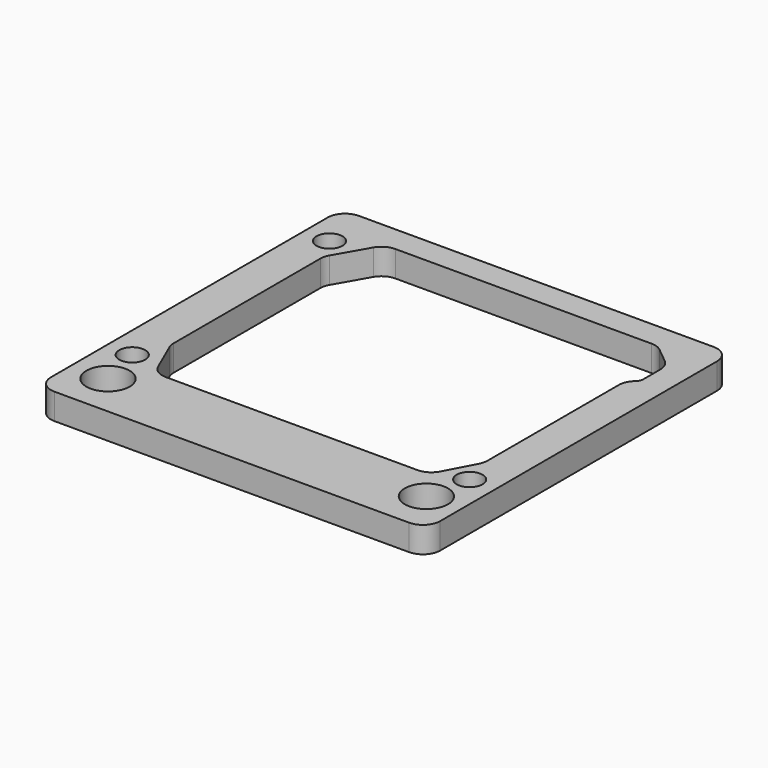
from build123d import *

# Parameters (mm, degrees)
F0_W     = 57.15
F0_H     = 55.88
F0_R     = 3.175
F0_R_2   = 1.905
F1_DEPTH = 3.81
F2_R     = 2.54
F3_R     = 1.27


with BuildPart() as f1:
    # F0 (on Top) → F1 (new body)
    with BuildSketch(Plane.XY):
        with Locations((24.765, 15.24)):
            Rectangle(F0_W, F0_H)
        with Locations((1.524, -6.35)):
            Circle(F0_R, mode=Mode.SUBTRACT)
        Circle(F0_R_2, mode=Mode.SUBTRACT)
        with Locations((48.26, -6.35)):
            Circle(F0_R, mode=Mode.SUBTRACT)
        with Locations((49.53, 0)):
            Circle(F0_R_2, mode=Mode.SUBTRACT)
        with Locations((0, 36.195)):
            Circle(F0_R_2, mode=Mode.SUBTRACT)
        Polygon((4.773997, -1.905), (1.905, 4.693742), (1.905, 32.801047), (5.652351, 39.363042), (45.657352, 39.363042), (49.53, 36.195), (49.53, 31.363741), (48.212558, 30.086137), (48.212558, 4.29449), (44.938698, -1.905), align=None, mode=Mode.SUBTRACT)
    extrude(amount=F1_DEPTH)

    # F2
    f2_edges = [f1.edges().sort_by_distance(p)[0] for p in [
        (-3.81, -12.7, 1.905),
        (-3.81, 43.18, 1.905),
        (53.34, -12.7, 1.905),
        (53.34, 43.18, 1.905),
        (1.905, 32.801047, 1.905),
        (5.652351, 39.363042, 1.905),
        (1.905, 4.693742, 1.905),
        (4.773997, -1.905, 1.905),
        (45.657352, 39.363042, 1.905),
        (49.53, 36.195, 1.905),
        (48.212558, 30.086137, 1.905),
        (48.212558, 4.29449, 1.905),
        (44.938698, -1.905, 1.905),
    ]]
    fillet(f2_edges, radius=F2_R)

    # F3
    f3_edges = [f1.edges().sort_by_distance(p)[0] for p in [
        (49.53, 31.363741, 1.905),
    ]]
    fillet(f3_edges, radius=F3_R)


solid = f1.part
